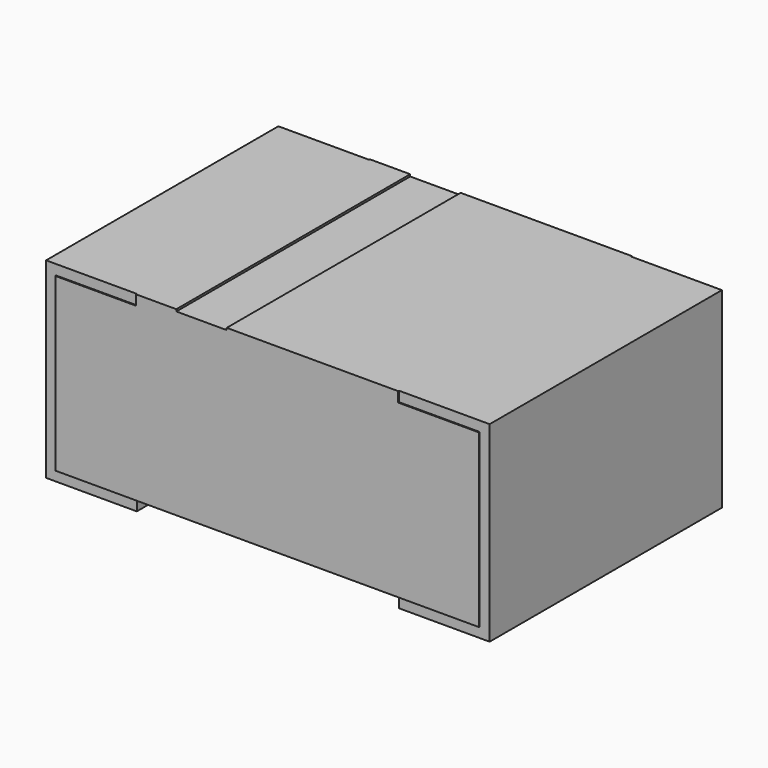
from build123d import *

# Parameters (mm, degrees)
PLATING_LEFT_W      = 0.45
PLATING_LEFT_H      = 1.44
PLATING_LEFT_DEPTH  = 0.95
PLATING_RIGHT_W     = 0.45
PLATING_RIGHT_H     = 1.44
PLATING_RIGHT_DEPTH = 0.95
BOX_W               = 0.25
BOX_H               = 3
BOX_DEPTH           = 3
MARKING_W           = 1.3
MARKING_H           = 1.45
MARKING_DEPTH       = 0.05
CHIP_W              = 2.1
CHIP_H              = 1.45
CHIP_DEPTH          = 0.85


with BuildPart() as plating_left:
    # plating_left → plating_left (new body)
    with BuildSketch(Plane(origin=(-1.1, -0.72, 0), x_dir=(1, 0, 0), z_dir=(0, 0, 1))):
        with Locations((0.225, 0.72)):
            Rectangle(PLATING_LEFT_W, PLATING_LEFT_H)
    extrude(amount=PLATING_LEFT_DEPTH)


with BuildPart() as plating_right:
    # plating_right → plating_right (new body)
    with BuildSketch(Plane(origin=(0.65, -0.72, 0), x_dir=(1, 0, 0), z_dir=(0, 0, 1))):
        with Locations((0.225, 0.72)):
            Rectangle(PLATING_RIGHT_W, PLATING_RIGHT_H)
    extrude(amount=PLATING_RIGHT_DEPTH)


with BuildPart() as box:
    # Box → Box (new body)
    with BuildSketch(Plane(origin=(-0.45, -2, 0.94), x_dir=(1, 0, 0), z_dir=(0, 0, 1))):
        with Locations((0.125, 1.5)):
            Rectangle(BOX_W, BOX_H)
    extrude(amount=BOX_DEPTH)


with BuildPart() as cut:
    # marking → marking (new body)
    with BuildSketch(Plane(origin=(-0.65, -0.725, 0.9), x_dir=(1, 0, 0), z_dir=(0, 0, 1))):
        with Locations((0.65, 0.725)):
            Rectangle(MARKING_W, MARKING_H)
    extrude(amount=MARKING_DEPTH)

    # Cut: cut Box
    add(box.part, mode=Mode.SUBTRACT)


with BuildPart() as dio_chip:
    # chip → chip (new body)
    with BuildSketch(Plane(origin=(-1.05, -0.725, 0.05), x_dir=(1, 0, 0), z_dir=(0, 0, 1))):
        with Locations((1.05, 0.725)):
            Rectangle(CHIP_W, CHIP_H)
    extrude(amount=CHIP_DEPTH)

    # Fusion: union plating_left, plating_right, Cut
    add(plating_left.part)
    add(plating_right.part)
    add(cut.part)


solid = dio_chip.part
